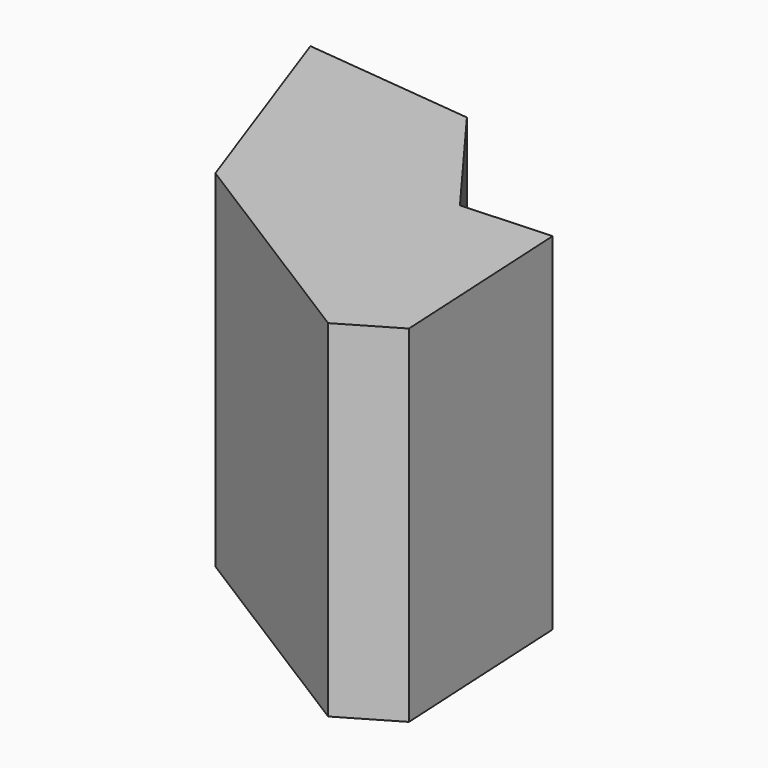
from build123d import *

# Parameters (mm, degrees)
F1_DEPTH = 25
F2_SIZE  = 5


with BuildPart() as f1:
    # F0 (on Top) → F1 (new body)
    with BuildSketch(Plane.XY):
        Polygon((-18.731119, 15.46237), (-13.22066, 0), (7.410507, -12.985495), (6.423207, 5.878989), (0, 5.542821), (-6.400389, 14.172364), align=None)
    extrude(amount=F1_DEPTH)

    # F2
    f2_edges = [f1.edges().sort_by_distance(p)[0] for p in [
        (7.410507, -12.985495, 12.5),
    ]]
    chamfer(f2_edges, length=F2_SIZE)


solid = f1.part
